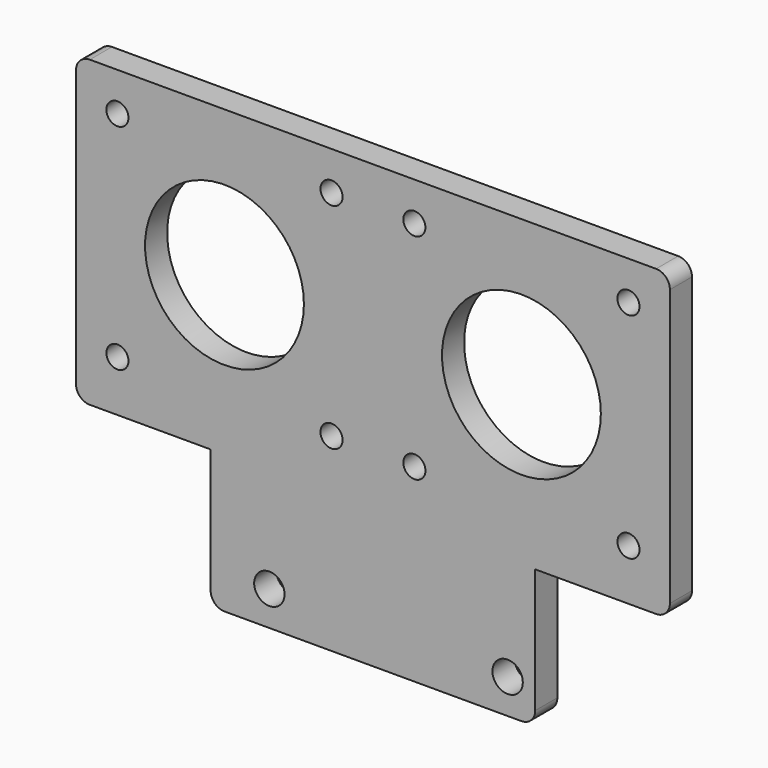
from build123d import *

# Parameters (mm, degrees)
F0_R     = 2.2
F0_R_2   = 1.6
F0_R_3   = 11.5
F0_R_4   = 3.5
F1_DEPTH = 4
F2_R     = 2


with BuildPart() as f1:
    # F0 (on Front) → F1 (new body)
    with BuildSketch(Plane.XZ):
        Polygon((43, 45), (43, 89), (-43, 89), (-43, 45), (-23.5, 45), (-23.5, 25), (23.5, 25), (23.5, 45), align=None)
        with Locations((-15, 30)):
            Circle(F0_R, mode=Mode.SUBTRACT)
        with Locations((-37, 52.4)):
            Circle(F0_R_2, mode=Mode.SUBTRACT)
        with Locations((-6, 52.4)):
            Circle(F0_R_2, mode=Mode.SUBTRACT)
        with Locations((19.5, 30)):
            Circle(F0_R, mode=Mode.SUBTRACT)
        with Locations((6, 52.4)):
            Circle(F0_R_2, mode=Mode.SUBTRACT)
        with Locations((37, 52.4)):
            Circle(F0_R_2, mode=Mode.SUBTRACT)
        with Locations((-21.5, 67.9)):
            Circle(F0_R_3, mode=Mode.SUBTRACT)
        with Locations((-37, 83.4)):
            Circle(F0_R_4, mode=Mode.SUBTRACT)
        with Locations((-6, 83.4)):
            Circle(F0_R_2, mode=Mode.SUBTRACT)
        with Locations((21.5, 67.9)):
            Circle(F0_R_3, mode=Mode.SUBTRACT)
        with Locations((6, 83.4)):
            Circle(F0_R_2, mode=Mode.SUBTRACT)
        with Locations((37, 83.4)):
            Circle(F0_R_4, mode=Mode.SUBTRACT)
        with Locations((-37, 83.4)):
            Circle(F0_R_4)
        with Locations((-37, 83.4)):
            Circle(F0_R_2, mode=Mode.SUBTRACT)
        with Locations((37, 83.4)):
            Circle(F0_R_4)
        with Locations((37, 83.4)):
            Circle(F0_R_2, mode=Mode.SUBTRACT)
    extrude(amount=F1_DEPTH)

    # F2
    f2_edges = [f1.edges().sort_by_distance(p)[0] for p in [
        (43, -2, 89),
        (43, -2, 45),
        (23.5, -2, 25),
        (-43, -2, 89),
        (-43, -2, 45),
        (-23.5, -2, 25),
    ]]
    fillet(f2_edges, radius=F2_R)


solid = f1.part
